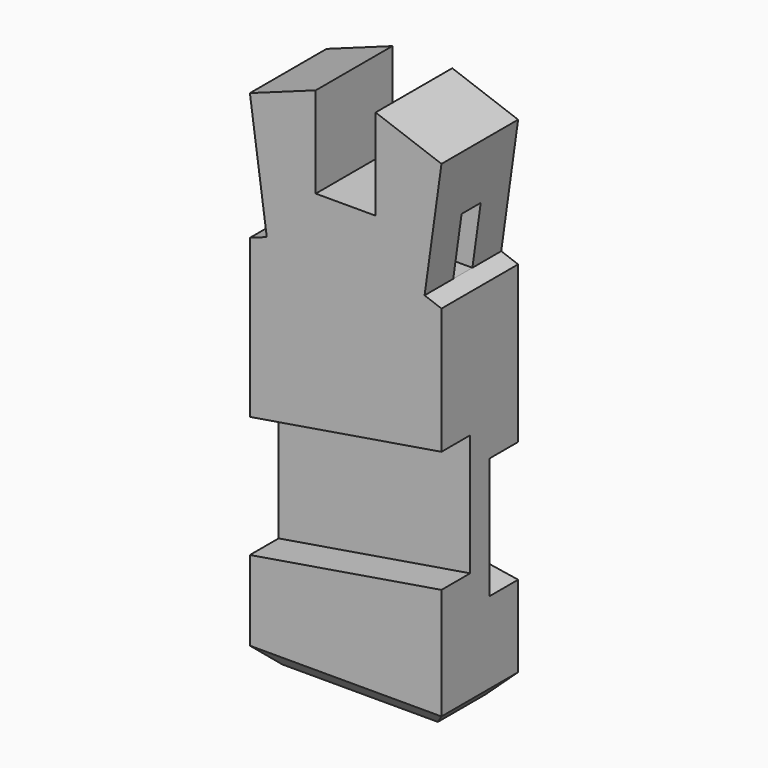
from build123d import *

# Parameters (mm, degrees)
F1_DEPTH  = 101.6
F3_W      = 51.8218297699
F3_H      = 127
F4_DEPTH  = 88.9
F2_W      = 50.8
F2_H      = 127
F5_DEPTH  = 88.9
F7_DEPTH  = 76.2
F9_DEPTH  = 76.2
F11_DEPTH = 203.2
F13_DEPTH = 406.4


with BuildPart() as f1:
    # F0 (on Front) → F1 (new body, symmetric)
    with BuildSketch(Plane.XZ):
        Polygon((-63.5, 255.5875), (-203.2, 255.5875), (-167.3808159173, -1.6199540129), (-203.2, -14.6044082429), (-203.2, -255.5875), (203.2, -255.5875), (203.2, -14.6044082429), (167.3808159173, -1.6199540129), (203.2, 255.5875), (63.5, 255.5875), (63.5, 113.3475), (-63.5, 113.3475), align=None)
        Polygon((-63.5, 306.22875), (-203.2, 255.5875), (-63.5, 255.5875), align=None)
        Polygon((63.5, 306.22875), (63.5, 255.5875), (203.2, 255.5875), align=None)
        Polygon((203.2, -255.5875), (-203.2, -255.5875), (5.2712307392, -288.1220414472), align=None)
        Polygon((5.2712307392, -288.1220414472), (-203.2, -255.5875), (-203.2, -322.3895), align=None)
        Polygon((203.2, -319.0113), (203.2, -255.5875), (5.2712307392, -288.1220414472), align=None)
        Polygon((5.2712307392, -288.1220414472), (-203.2, -322.3895), (-203.2, -512.662041116), (6.3136153163, -545.3592597063), (203.2, -512.9960602239), (203.2, -319.0113), align=None)
        Polygon((6.3136153163, -545.3592597063), (-203.2, -512.662041116), (-203.2, -579.7980602239), align=None)
        Polygon((203.2, -576.085841116), (203.2, -512.9960602239), (6.3136153163, -545.3592597063), align=None)
        Polygon((6.3136153163, -545.3592597063), (-203.2, -579.7980602239), (-203.2, -814.3875), (203.2, -814.3875), (203.2, -576.085841116), align=None)
    extrude(amount=F1_DEPTH, both=True)

    # F3 (on face) → F4 (cut)
    with BuildSketch(Plane(origin=(-203.2, 0, 0), x_dir=(0, -1, 0), z_dir=(-1, 0, 0))):
        with Locations((-0.2844144409, 61.8800459871)):
            Rectangle(F3_W, F3_H)
    extrude(amount=-F4_DEPTH, mode=Mode.SUBTRACT)

    # F2 (on face) → F5 (cut)
    with BuildSketch(Plane.YZ.offset(203.2)):
        with Locations((-0.2265004441, 61.8800459871)):
            Rectangle(F2_W, F2_H)
    extrude(amount=-F5_DEPTH, mode=Mode.SUBTRACT)

    # F6 (on face) → F7 (cut)
    with BuildSketch(Plane.XZ.offset(101.6)):
        Polygon((203.2, -282.1055948734), (-203.2, -349.0782082081), (-203.2, -606.9228053093), (203.2, -539.9501919746), align=None)
    extrude(amount=-F7_DEPTH, mode=Mode.SUBTRACT)

    # F8 (on face) → F9 (cut)
    with BuildSketch(Plane(origin=(0, 101.6, 0), x_dir=(-1, 0, 0), z_dir=(0, 1, 0))):
        Polygon((-203.2, -346.3322222233), (-203.2, -603.5153269768), (203.2, -539.219558239), (203.2, -282.6924920082), align=None)
    extrude(amount=-F9_DEPTH, mode=Mode.SUBTRACT)

    # F10 (on face) → F11 (cut)
    with BuildSketch(Plane.XZ.offset(101.6)):
        Polygon((203.2, -776.2875), (165.1, -814.3875), (203.2, -814.3875), align=None)
        Polygon((-203.2, -814.3875), (-165.1, -814.3875), (-203.2, -776.2875), align=None)
    extrude(amount=-F11_DEPTH, mode=Mode.SUBTRACT)

    # F12 (on face) → F13 (cut)
    with BuildSketch(Plane.YZ.offset(203.2)):
        Polygon((-63.5, -814.3875), (-101.6, -776.2875), (-101.6029715538, -814.3875), align=None)
        Polygon((101.6, -814.3875), (101.6, -776.2875), (63.5, -814.3875), align=None)
    extrude(amount=-F13_DEPTH, mode=Mode.SUBTRACT)


solid = f1.part
